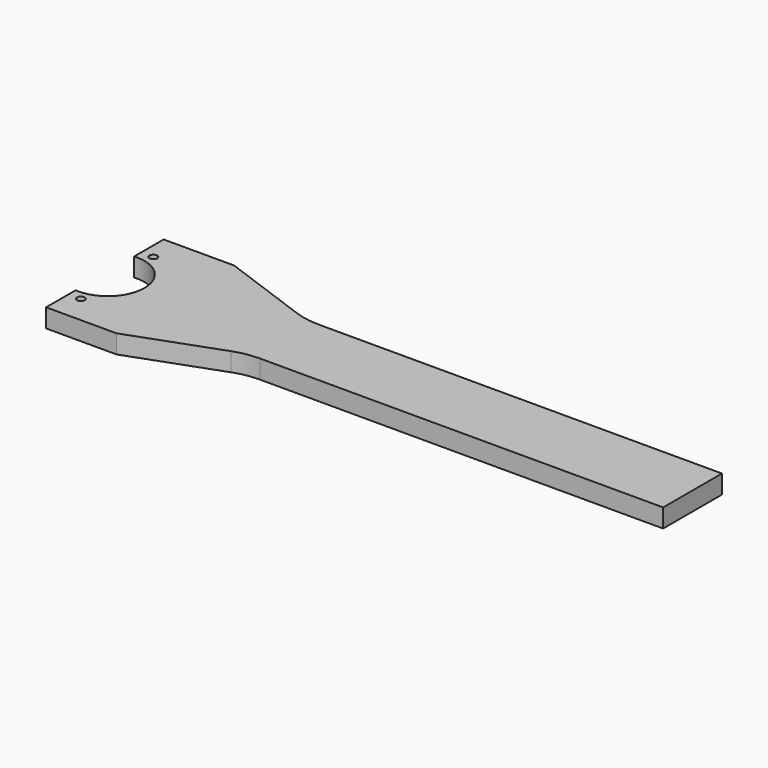
from build123d import *

# Parameters (mm, degrees)
F0_W     = 304.8
F0_H     = 76.2
F1_DEPTH = 9.652
F3_DEPTH = 9.653
F5_DEPTH = 25.4
F7_D     = 4


with BuildPart() as f1:
    # F0 (on Top) → F1 (new body)
    with BuildSketch(Plane.XY):
        with Locations((152.4, 38.1)):
            Rectangle(F0_W, F0_H)
    extrude(amount=F1_DEPTH)

    # F2 (on face) → F3 (cut, through all)
    with BuildSketch(Plane.XY.offset(9.652)):
        with BuildLine():
            ThreePointArc((0, 19.111058), (14.444339, 24.101166), (20.574, 38.1))
            ThreePointArc((20.574, 38.1), (14.444339, 52.098834), (0, 57.088942))
            Line((0, 57.088942), (0, 19.111058))
        make_face()
    extrude(amount=-F3_DEPTH, mode=Mode.SUBTRACT)

    # F4 (on face) → F5 (cut)
    with BuildSketch(Plane(origin=(0, 0, 0), x_dir=(1, 0, 0), z_dir=(0, 0, -1))):
        with BuildLine():
            Line((304.8, 0), (36.560555, 0))
            Line((36.560555, 0), (82.587091, -16.752289))
            ThreePointArc((82.587091, -16.752289), (89.002062, -18.471175), (95.618058, -19.05))
            Line((95.618058, -19.05), (304.8, -19.05))
            Line((304.8, -19.05), (304.8, 0))
        make_face()
        with BuildLine():
            Line((304.8, -76.2), (304.8, -57.15))
            Line((304.8, -57.15), (95.618058, -57.15))
            ThreePointArc((95.618058, -57.15), (89.002062, -57.728825), (82.587091, -59.447711))
            Line((82.587091, -59.447711), (36.560555, -76.2))
            Line((36.560555, -76.2), (304.8, -76.2))
        make_face()
    extrude(amount=-F5_DEPTH, mode=Mode.SUBTRACT)

    # F7 (through all)
    with Locations(Plane(origin=(0, 0, 0), x_dir=(1, 0, 0), z_dir=(0, 0, -1))):
        with Locations((6.35, -14.6), (6.35, -61.6)):
            Hole(F7_D / 2)


solid = f1.part
